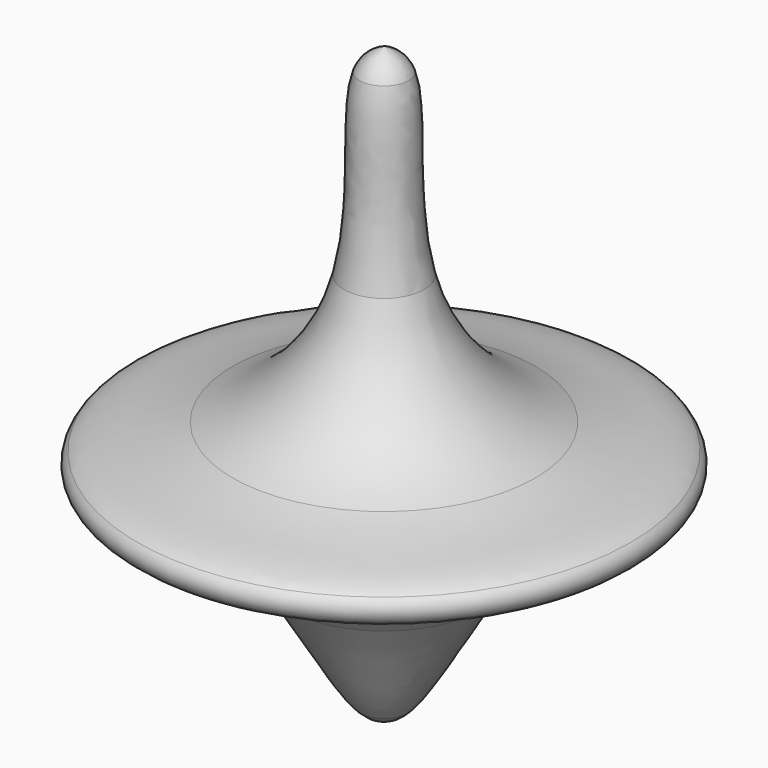
from build123d import *


with BuildPart() as f1:
    # F0 (on Front) → F1 (revolve)
    with BuildSketch(Plane.XZ):
        with BuildLine():
            Line((13.665, 0), (0, 0))
            Line((0, 0), (0, -1.2))
            Line((0, -1.2), (13.71, -1.2))
            add(Edge.make_bspline(
                [(13.665, 0), (14.0298880486, -0.328891577), (14.0474355227, -0.831321565), (13.71, -1.2)],
                knots=[0.5112427618, 0.5112427618, 0.5112427618, 0.5112427618, 0.5677312504, 0.5677312504, 0.5677312504, 0.5677312504], degree=3))
        make_face()
        with BuildLine():
            Line((0, 1.42), (0, 0))
            Line((0, 0), (13.665, 0))
            add(Edge.make_bspline(
                [(8.38, 1.42), (10.5242206514, 0.6133605516), (12.8860545622, 0.7021019033), (13.665, 0)],
                knots=[0.3906538561, 0.3906538561, 0.3906538561, 0.3906538561, 0.5112427618, 0.5112427618, 0.5112427618, 0.5112427618], degree=3))
            Line((8.38, 1.42), (0, 1.42))
        make_face()
        with BuildLine():
            Line((0, 8.6), (0, 1.42))
            Line((0, 1.42), (8.38, 1.42))
            add(Edge.make_bspline(
                [(2.22, 8.6), (3.1177109994, 5.0890195473), (5.5607589495, 2.480576972), (8.38, 1.42)],
                knots=[0.2321024529, 0.2321024529, 0.2321024529, 0.2321024529, 0.3906538561, 0.3906538561, 0.3906538561, 0.3906538561], degree=3))
            Line((2.22, 8.6), (0, 8.6))
        make_face()
        with BuildLine():
            Line((13.71, -1.2), (0, -1.2))
            Line((0, -1.2), (0, -2.65))
            Line((0, -2.65), (9.605, -2.65))
            add(Edge.make_bspline(
                [(13.71, -1.2), (13.0675044846, -1.901983713), (11.1380456973, -2.1190615636), (9.605, -2.65)],
                knots=[0.5677312504, 0.5677312504, 0.5677312504, 0.5677312504, 0.6752883929, 0.6752883929, 0.6752883929, 0.6752883929], degree=3))
        make_face()
        with BuildLine():
            Line((0, 18.5), (0, 8.6))
            Line((0, 8.6), (2.22, 8.6))
            add(Edge.make_bspline(
                [(1.345, 18.5), (2.0032143028, 16.7454299033), (1.2998774793, 12.1986327297), (2.22, 8.6)],
                knots=[0.0695927845, 0.0695927845, 0.0695927845, 0.0695927845, 0.2321024529, 0.2321024529, 0.2321024529, 0.2321024529], degree=3))
            Line((1.345, 18.5), (0, 18.5))
        make_face()
        with BuildLine():
            Line((9.605, -2.65), (0, -2.65))
            Line((0, -2.65), (0, -5.92))
            Line((0, -5.92), (5.47, -5.92))
            add(Edge.make_bspline(
                [(9.605, -2.65), (7.9180231055, -3.2342492994), (6.7110625877, -4.198552197), (5.47, -5.92)],
                knots=[0.6752883929, 0.6752883929, 0.6752883929, 0.6752883929, 0.7936452133, 0.7936452133, 0.7936452133, 0.7936452133], degree=3))
        make_face()
        with BuildLine():
            Line((0, 19.73), (0, 18.5))
            Line((0, 18.5), (1.345, 18.5))
            add(Edge.make_bspline(
                [(0, 19.73), (0.5315638743, 19.4906866276), (1.0631277486, 19.2513732553), (1.345, 18.5)],
                knots=[0, 0, 0, 0, 0.0695927845, 0.0695927845, 0.0695927845, 0.0695927845], degree=3))
        make_face()
        with BuildLine():
            Line((5.47, -5.92), (0, -5.92))
            Line((0, -5.92), (0, -12.34))
            Line((0, -12.34), (1.32, -12.34))
            add(Edge.make_bspline(
                [(5.47, -5.92), (3.9755112158, -7.992969131), (2.4315710199, -11.1638740892), (1.32, -12.34)],
                knots=[0.7936452133, 0.7936452133, 0.7936452133, 0.7936452133, 0.9361706123, 0.9361706123, 0.9361706123, 0.9361706123], degree=3))
        make_face()
        with BuildLine():
            Line((1.32, -12.34), (0, -12.34))
            Line((0, -12.34), (0, -13.12))
            add(Edge.make_bspline(
                [(1.32, -12.34), (0.8221876943, -12.8667229363), (0.4110938471, -12.9933614681), (0, -13.12)],
                knots=[0.9361706123, 0.9361706123, 0.9361706123, 0.9361706123, 1, 1, 1, 1], degree=3))
        make_face()
    revolve(axis=Axis((0, 0, 9.865), (0, 0, 1)))


solid = f1.part
